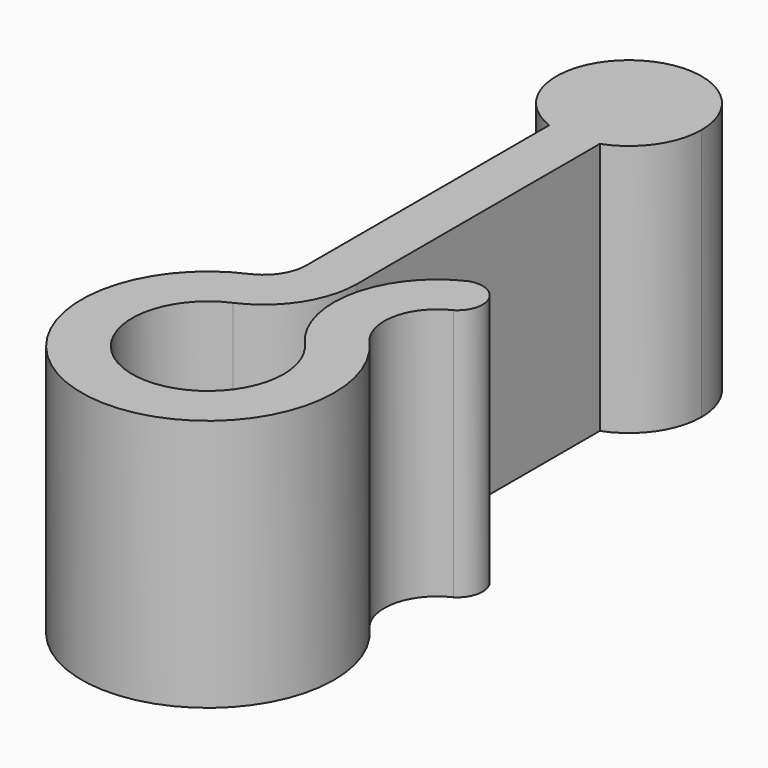
from build123d import *

# Parameters (mm, degrees)
F1_DEPTH = 10


with BuildPart() as f1:
    # F0 (on Top) → F1 (new body)
    with BuildSketch(Plane.XY):
        with BuildLine():
            ThreePointArc((1, -2.695482), (2.360151, -1.641741), (2.875, 0))
            ThreePointArc((2.875, 0), (-1.641741, 2.360151), (-1, -2.695482))
            ThreePointArc((-1, -2.695482), (0, -2.875), (1, -2.695482))
        make_face()
        with BuildLine():
            ThreePointArc((1, -2.695482), (0, -2.875), (-1, -2.695482))
            Line((-1, -2.695482), (-1, -14.695482))
            ThreePointArc((-1, -14.695482), (-1.276497, -15.625655), (-2.016198, -16.253759))
            ThreePointArc((-2.016198, -16.253759), (-1.063098, -25.714906), (3.735088, -17.505209))
            ThreePointArc((3.735088, -17.505209), (3.249507, -15.687736), (4.419543, -14.214638))
            ThreePointArc((4.419543, -14.214638), (4.801253, -12.936125), (3.579619, -12.399555))
            ThreePointArc((3.579619, -12.399555), (1.291418, -15.280443), (2.241053, -18.834818))
            ThreePointArc((2.241053, -18.834818), (-0.637859, -23.760636), (-1.209719, -18.083947))
            ThreePointArc((-1.209719, -18.083947), (0.398758, -16.718139), (1, -14.695482))
            Line((1, -14.695482), (1, -2.695482))
        make_face()
    extrude(amount=F1_DEPTH)


solid = f1.part
